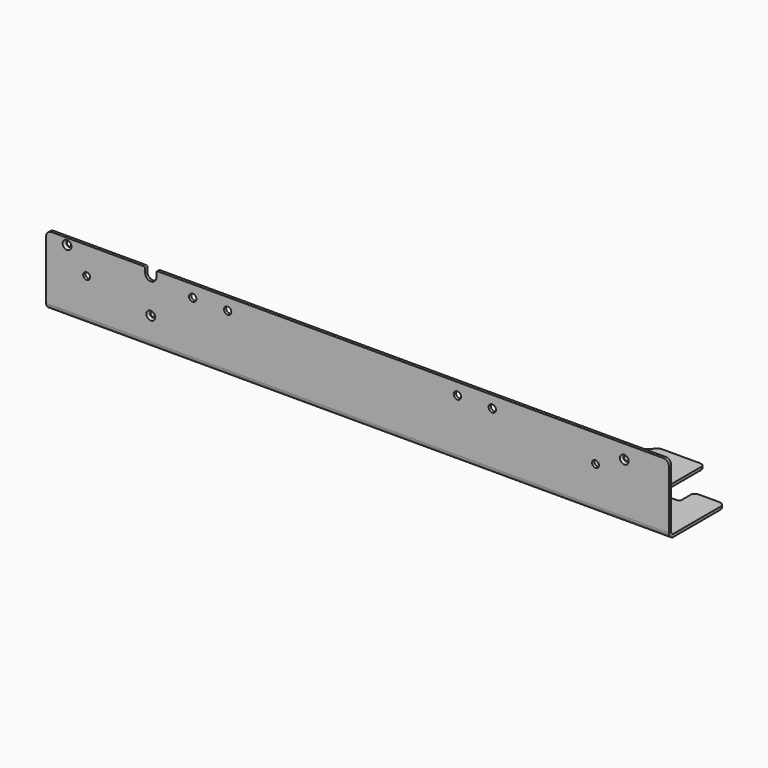
from build123d import *

# Parameters (mm, degrees)
SKETCH_R        = 6.5
SKETCH_R_2      = 1.7
SKETCH_R_3      = 3.15
SKETCH_R_4      = 2.46
PAD_DEPTH       = 2
FILLET_R        = 4
FILLET001_R     = 2
FILLET002_R     = 3
CHAMFER_SIZE    = 1.45
SKETCH001_R     = 1.7
SKETCH001_R_2   = 2.46
PAD001_DEPTH    = 2
CHAMFER001_SIZE = 1.45
POCKET_DEPTH    = 5
FILLET003_R     = 4
FILLET004_R     = 5
FILLET005_R     = 1
FILLET006_R     = 2
FILLET007_R     = 4
SKETCH003_W     = 130
SKETCH003_H     = 40
POCKET001_DEPTH = 5
SKETCH004_R     = 2.62
POCKET002_DEPTH = 5


with BuildPart() as fillet007:
    # Sketch → Pad (new body)
    with BuildSketch(Plane.XY):
        with BuildLine():
            Line((-223, 0), (223, 0))
            Line((223, 0), (223, 50))
            Line((223, 50), (201, 50))
            Line((201, 50), (201, 37))
            Line((201, 37), (184.5, 37))
            Line((184.5, 37), (184.5, 76.996797))
            ThreePointArc((184.5, 76.996797), (183.62132, 79.118117), (181.5, 79.996797))
            Line((181.5, 79.996797), (153.74, 79.996797))
            ThreePointArc((153.74, 79.996797), (152.59195, 79.768435), (151.61868, 79.118117))
            Line((126.015281, 53.514719), (151.61868, 79.118117))
            ThreePointArc((117.53, 50), (122.122201, 50.913446), (126.015281, 53.514719))
            Line((-219, 50), (117.53, 50))
            ThreePointArc((-219, 50), (-221.828427, 48.828427), (-223, 46))
            Line((-223, 0), (-223, 46))
        make_face()
        with Locations((-169, 20.5)):
            Circle(SKETCH_R, mode=Mode.SUBTRACT)
        with Locations((-148, 20.5)):
            Circle(SKETCH_R_2, mode=Mode.SUBTRACT)
        with Locations((-136.85, 20.5)):
            Circle(SKETCH_R_3, mode=Mode.SUBTRACT)
        with Locations((-208, 45.5)):
            Circle(SKETCH_R_2, mode=Mode.SUBTRACT)
        with Locations((-69, 43.5)):
            Circle(SKETCH_R_2, mode=Mode.SUBTRACT)
        with Locations((156, 69.996797)):
            Circle(SKETCH_R_2, mode=Mode.SUBTRACT)
        with Locations((131, 47.54)):
            Circle(SKETCH_R_2, mode=Mode.SUBTRACT)
        with Locations((170.5, 30.5)):
            Circle(SKETCH_R_4, mode=Mode.SUBTRACT)
        with Locations((191, 20)):
            Circle(SKETCH_R_2, mode=Mode.SUBTRACT)
        with Locations((-194, 30.5)):
            Circle(SKETCH_R_4, mode=Mode.SUBTRACT)
    extrude(amount=PAD_DEPTH)

    # Fillet
    fillet_edges = [fillet007.edges().sort_by_distance(p)[0] for p in [
        (223, 50, 1),
    ]]
    fillet(fillet_edges, radius=FILLET_R)

    # Fillet001
    fillet001_edges = [fillet007.edges().sort_by_distance(p)[0] for p in [
        (201, 37, 1),
        (184.5, 37, 1),
    ]]
    fillet(fillet001_edges, radius=FILLET001_R)

    # Fillet002
    fillet002_edges = [fillet007.edges().sort_by_distance(p)[0] for p in [
        (201, 50, 1),
    ]]
    fillet(fillet002_edges, radius=FILLET002_R)

    # Chamfer
    chamfer_edges = [fillet007.edges().sort_by_distance(p)[0] for p in [
        (189.3, 20, 2),
        (154.3, 69.996797, 2),
        (129.3, 47.54, 2),
        (-70.7, 43.5, 2),
        (-149.7, 20.5, 2),
        (-209.7, 45.5, 2),
    ]]
    chamfer(chamfer_edges, length=CHAMFER_SIZE)

    # Sketch001 → Pad001 (new body)
    with BuildSketch(Plane.XZ):
        Polygon((-223, 2), (223, 2), (223, -48), (-5, -48), (-19, -62), (-41, -62), (-55, -48), (-223, -48), align=None)
        with Locations((-208, -43.5)):
            Circle(SKETCH001_R, mode=Mode.SUBTRACT)
        with Locations((-194, -28.5)):
            Circle(SKETCH001_R_2, mode=Mode.SUBTRACT)
        with Locations((-148, -18.5)):
            Circle(SKETCH001_R, mode=Mode.SUBTRACT)
        with Locations((191, -38)):
            Circle(SKETCH001_R, mode=Mode.SUBTRACT)
        with Locations((170.4, -28.5)):
            Circle(SKETCH001_R_2, mode=Mode.SUBTRACT)
    extrude(amount=-PAD001_DEPTH)

    # Chamfer001
    chamfer001_edges = [fillet007.edges().sort_by_distance(p)[0] for p in [
        (189.3, 0, -38),
        (-149.7, 0, -18.5),
        (-209.7, 0, -43.5),
    ]]
    chamfer(chamfer001_edges, length=CHAMFER001_SIZE)

    # Sketch002 → Pocket (cut)
    with BuildSketch(Plane.XZ):
        with BuildLine():
            Line((-152, -48), (-152, -43.999997))
            ThreePointArc((-144, -44), (-147.999999, -39.999998), (-152, -43.999997))
            Line((-144, -48), (-144, -44))
            Line((-152, -48), (-144, -48))
        make_face()
    extrude(amount=-POCKET_DEPTH, mode=Mode.SUBTRACT)

    # Fillet003
    fillet003_edges = [fillet007.edges().sort_by_distance(p)[0] for p in [
        (-223, 1, -48),
        (223, 1, -48),
    ]]
    fillet(fillet003_edges, radius=FILLET003_R)

    # Fillet004
    fillet004_edges = [fillet007.edges().sort_by_distance(p)[0] for p in [
        (-5, 1, -48),
        (-19, 1, -62),
        (-41, 1, -62),
        (-55, 1, -48),
    ]]
    fillet(fillet004_edges, radius=FILLET004_R)

    # Fillet005
    fillet005_edges = [fillet007.edges().sort_by_distance(p)[0] for p in [
        (-152, 1, -48),
        (-144, 1, -48),
    ]]
    fillet(fillet005_edges, radius=FILLET005_R)

    # Fillet006
    fillet006_edges = [fillet007.edges().sort_by_distance(p)[0] for p in [
        (0, 2, 0),
    ]]
    fillet(fillet006_edges, radius=FILLET006_R)

    # Fillet007
    fillet007_edges = [fillet007.edges().sort_by_distance(p)[0] for p in [
        (0, 0, 2),
    ]]
    fillet(fillet007_edges, radius=FILLET007_R)


with BuildPart() as pocket002:
    # Part__Mirroring: instance of Fillet007
    add(fillet007.part.mirror(Plane(origin=(0, 0, 0), x_dir=(0, 1, 0), z_dir=(0, 0, 1))))

    # Sketch003 → Pocket001 (cut)
    with BuildSketch(Plane(origin=(0, 2, 0), x_dir=(-1, 0, 0), z_dir=(0, 1, 0))):
        with Locations((0, 68)):
            Rectangle(SKETCH003_W, SKETCH003_H)
    extrude(amount=-POCKET001_DEPTH, mode=Mode.SUBTRACT)

    # Sketch004 → Pocket002 (cut)
    with BuildSketch(Plane.XZ):
        with Locations((-118, 39.5)):
            Circle(SKETCH004_R)
        with Locations((-93, 39.5)):
            Circle(SKETCH004_R)
        with Locations((71.5, 39.5)):
            Circle(SKETCH004_R)
        with Locations((96.5, 39.5)):
            Circle(SKETCH004_R)
    extrude(amount=-POCKET002_DEPTH, mode=Mode.SUBTRACT)


solid = pocket002.part
